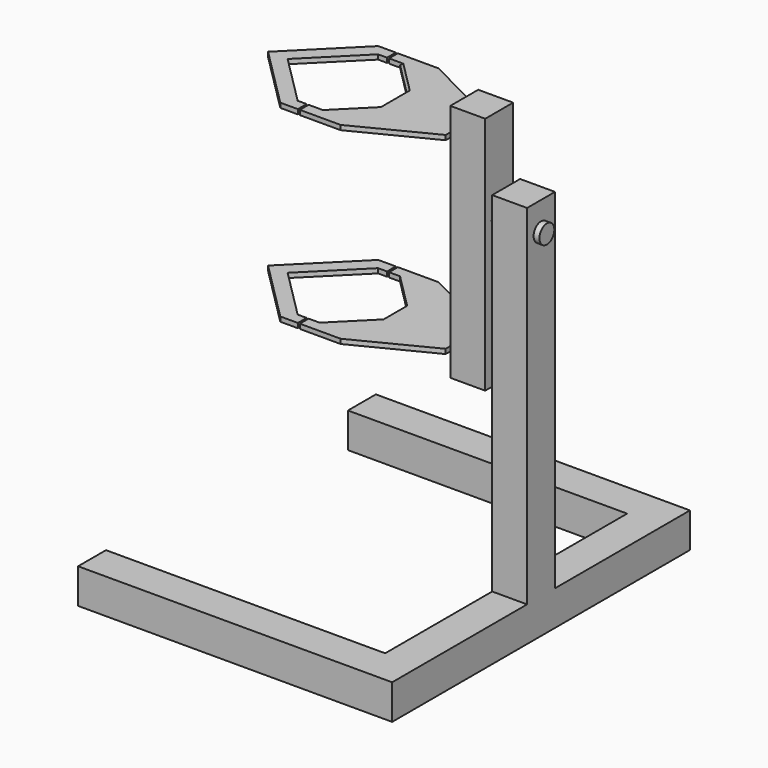
from build123d import *

# Parameters (mm, degrees)
F1_DEPTH      = 20
F3_W          = 150
F3_H          = 150
F4_DEPTH      = 100
F4_DEPTH_BACK = 929.1
F5_R          = 40
F6_DEPTH      = 30
F8_W          = 150
F8_H          = 150
F9_DEPTH      = 1500
F10_W         = 1200
F10_H         = 150
F11_DEPTH     = 150
F12_SIZE      = 10
F13_R         = 40
F14_DEPTH     = 25


with BuildPart() as f1:
    # F0 (on Top) → F1 (new body)
    with BuildSketch(Plane.XY):
        Polygon((47.1851439576, 216), (131.5925719788, 131.5925719788), (199.9860743632, 63.1990695944), (263.1851439576, 0), (199.9860743632, -63.1990695944), (131.5925719788, -131.5925719788), (47.1851439576, -216), (0, -263.1851439576), (175.0259101391, -263.1851439576), (496.1, -100), (496.1, 100), (175.0259101391, 263.1851439576), (0, 263.1851439576), align=None)
        Polygon((0, 216), (47.1851439576, 216), (0, 263.1851439576), align=None)
        Polygon((263.1851439576, 0), (199.9860743632, 63.1990695944), (199.9860743632, -63.1990695944), align=None)
        Polygon((0, -263.1851439576), (47.1851439576, -216), (0, -216), align=None)
    extrude(amount=F1_DEPTH)


with BuildPart() as f1b:
    # F0 (on Top) → F1, piece 2 (new body)
    with BuildSketch(Plane.XY):
        Polygon((-263.1851439576, 0), (-131.5925721105, 131.5925718471), (-47.1851439576, 216), (-8.6624734104, 254.5226705473), (-8.6624734104, 263.1851439576), (-84.1065645218, 263.1851439576), (-347.2917084794, 0), (-84.1065645218, -263.1851439576), (-8.6624734104, -263.1851439576), (-8.6624734104, -254.5226705473), (-47.1851439576, -216), (-131.5925726684, -131.5925712893), align=None)
        Polygon((-8.6624734104, 254.5226705473), (-47.1851439576, 216), (-8.6624734104, 216), align=None)
        Polygon((-8.6624734104, -216), (-47.1851439576, -216), (-8.6624734104, -254.5226705473), align=None)
    extrude(amount=F1_DEPTH)


with BuildPart() as f2_1:
    # F2: copy of F1
    add(f1.part.moved(Location((0, 0, 809.1))))

    # F12
    f12_edges = [f2_1.edges().sort_by_distance(p)[0] for p in [
        (123.585609, -139.599535, 829.1),
        (123.585609, 139.599535, 829.1),
    ]]
    chamfer(f12_edges, length=F12_SIZE)


with BuildPart() as f2_2:
    # F2: copy of F1b
    add(f1b.part.moved(Location((0, 0, 809.1))))


with BuildPart() as f4:
    # F3 (on face) → F4 (new body, two sides)
    with BuildSketch(Plane.XY.offset(829.1)) as f4_sk:
        with Locations((571.1, 0)):
            Rectangle(F3_W, F3_H)
    extrude(amount=F4_DEPTH)
    extrude(f4_sk.sketch, amount=-F4_DEPTH_BACK)

    # F5 (on face) → F6 (join)
    with BuildSketch(Plane.YZ.offset(646.1)):
        with Locations((0, 529.1)):
            Circle(F5_R)
    extrude(amount=F6_DEPTH)


with BuildPart() as f9:
    # F8 (on offset) → F9 (new body)
    with BuildSketch(Plane.XY.offset(650)):
        with Locations((751.1, 0)):
            Rectangle(F8_W, F8_H)
    extrude(amount=-F9_DEPTH)

    # F10 (on face) → F11 (join)
    with BuildSketch(Plane(origin=(0, 0, -850), x_dir=(1, 0, 0), z_dir=(0, 0, -1))):
        Polygon((826.1, 800), (676.1, 800), (676.1, 650), (676.1, -650), (676.1, -800), (826.1, -800), align=None)
        with Locations((76.1, 725)):
            Rectangle(F10_W, F10_H)
        with Locations((76.1, -725)):
            Rectangle(F10_W, F10_H)
    extrude(amount=F11_DEPTH)


with BuildPart() as f14:
    # F13 (on face) → F14 (new body)
    with BuildSketch(Plane.YZ.offset(826.1)):
        with Locations((0, 529.1)):
            Circle(F13_R)
    extrude(amount=F14_DEPTH)


solid = Compound([f1.part, f1b.part, f2_1.part, f2_2.part, f4.part, f9.part, f14.part])
